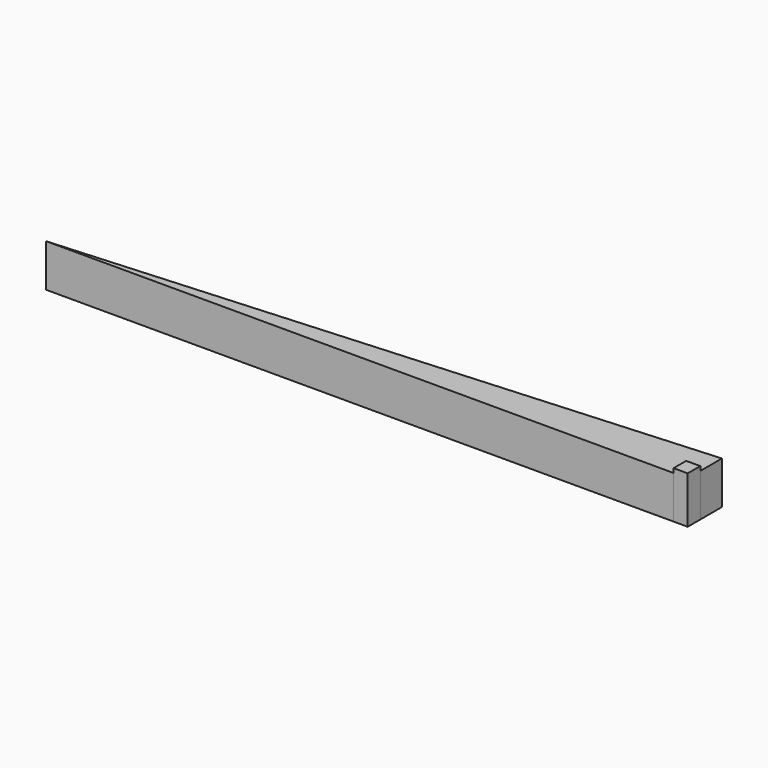
from build123d import *

# Parameters (mm, degrees)
F0_W     = 8.378961
F0_H     = 9.354263
F1_DEPTH = 25.4
F2_DEPTH = 27.94


with BuildPart() as f1:
    # F0 (on Top) → F1 (new body)
    with BuildSketch(Plane.XY):
        Polygon((483.153739, -240.507019), (102.153739, -265.907019), (474.774778, -265.907019), (474.774778, -256.552756), (483.153739, -256.552756), align=None)
        with Locations((478.964258, -261.229888)):
            Rectangle(F0_W, F0_H)
    extrude(amount=F1_DEPTH)


with BuildPart() as f2:
    # F0 (on Top) → F2 (new body)
    with BuildSketch(Plane.XY):
        with Locations((478.964258, -261.229888)):
            Rectangle(F0_W, F0_H)
    extrude(amount=F2_DEPTH)


solid = Compound([f1.part, f2.part])
